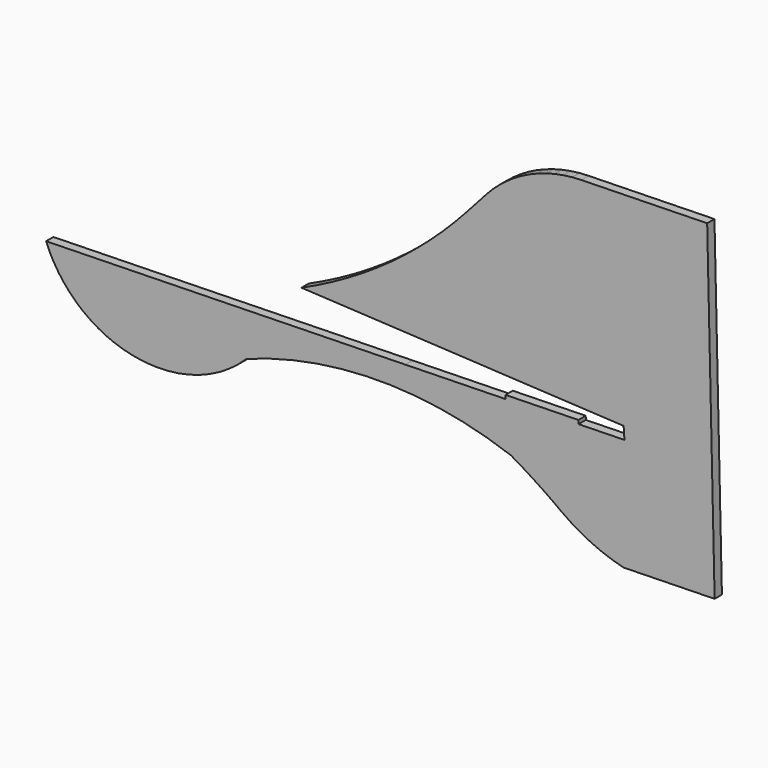
from build123d import *

# Parameters (mm, degrees)
F1_DEPTH = 5


with BuildPart() as f1:
    # F0 (on Front) → F1 (new body)
    with BuildSketch(Plane.XZ):
        Polygon((98.954107, -74.362564), (104.19903, -77.978152), (109.668386, -81.244313), (115.338936, -84.147177), (121.18655, -86.674401), (127.186436, -88.81524), (133.313043, -90.560601), (183.300167, -89.426237), (179.215694, 90.560601), (110.167471, 88.993675), (105.265372, 88.715596), (100.393449, 88.10531), (95.574231, 87.165612), (90.829917, 85.900844), (86.182454, 84.316849), (81.653253, 82.420968), (77.263269, 80.221912), (73.032696, 77.729842), (68.981142, 74.956264), (65.127251, 71.913979), (61.488803, 68.617033), (58.082663, 65.080642), (47.36272, 53.16601), (40.946045, 46.278343), (34.294343, 39.617396), (27.415617, 33.191171), (20.31812, 27.007388), (13.010413, 21.073491), (5.501284, 15.396642), (-2.200199, 9.983673), (-10.084816, 4.841088), (-18.143068, -0.024943), (-26.365251, -4.608551), (-34.74146, -8.904199), (-43.26161, -12.906756), (133.402603, -22.155506), (133.854063, -28.785007), (108.662673, -29.356685), (108.617309, -27.357197), (68.6276, -28.264688), (68.672964, -30.264176), (13.68712, -31.511977), (-183.300167, -35.98225), (-181.325495, -40.492528), (-179.012799, -44.839153), (-176.375517, -48.996879), (-173.429016, -52.941474), (-170.190414, -56.650001), (-166.678559, -60.100921), (-162.913898, -63.274092), (-158.9183, -66.1511), (-154.715058, -68.715204), (-150.328605, -70.951446), (-145.784468, -72.846844), (-141.109065, -74.390402), (-135.176895, -75.819813), (-129.14155, -76.719024), (-123.050325, -77.080999), (-116.950947, -76.90292), (-110.891218, -76.186132), (-104.918612, -74.936274), (-99.079939, -73.163151), (-93.420946, -70.880656), (-87.985981, -68.106646), (-82.817589, -64.862913), (-77.956334, -61.174808), (-73.440239, -57.07126), (-60.687026, -52.802841), (-47.687916, -49.355121), (-34.495664, -46.742045), (-21.163813, -44.974281), (-7.746441, -44.058942), (5.701995, -43.999785), (19.126911, -44.79704), (32.473798, -46.447456), (45.688529, -48.944352), (58.717485, -52.277594), (71.507756, -56.433644), (73.871785, -57.805904), (76.22253, -59.200745), (78.559838, -60.618065), (80.88343, -62.057712), (83.193128, -63.519558), (85.488729, -65.003451), (87.769979, -66.50929), (90.036701, -68.036923), (92.28869, -69.586221), (94.525719, -71.157008), (96.747584, -72.749181), align=None)
    extrude(amount=F1_DEPTH)


solid = f1.part
